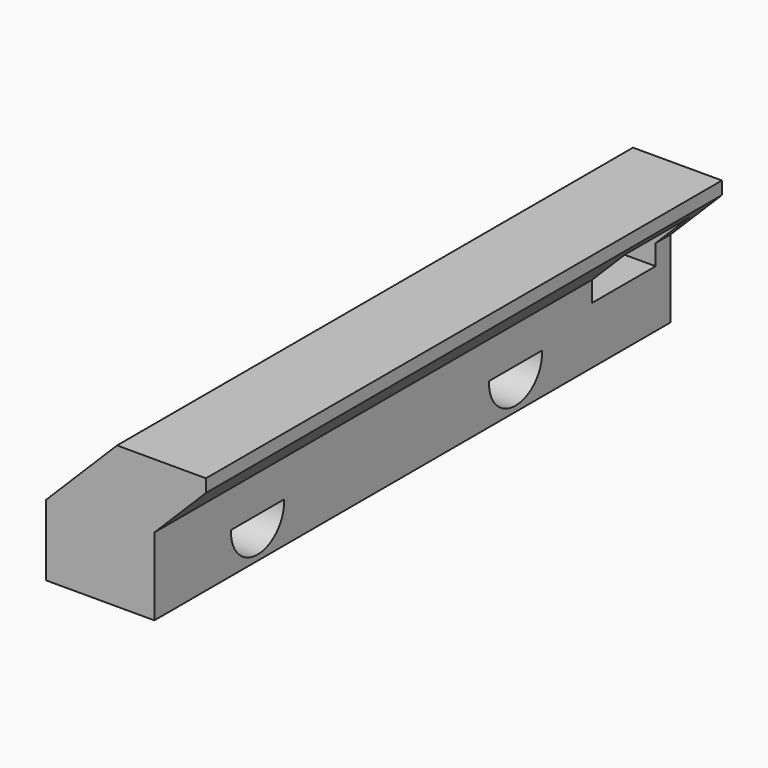
from build123d import *

# Parameters (mm, degrees)
F1_DEPTH = 100
F3_DEPTH = 25
F4_W     = 12.3
F4_H     = 8.3
F5_DEPTH = 25


with BuildPart() as f1:
    # F0 (on Front) → F1 (new body)
    with BuildSketch(Plane.XZ):
        Polygon((-16.789507, 0), (0, 0), (0, 12), (8, 20), (8, 22), (-5.789507, 22), (-16.789507, 11), align=None)
    extrude(amount=F1_DEPTH)

    # F2 (on face) → F3 (cut)
    with BuildSketch(Plane.YZ):
        with BuildLine():
            Line((-74.858745, 6.3), (-85.141255, 6.3))
            ThreePointArc((-85.141255, 6.3), (-80, 0.85), (-74.858745, 6.3))
        make_face()
        with BuildLine():
            Line((-24.858745, 6.3), (-35.141255, 6.3))
            ThreePointArc((-35.141255, 6.3), (-30, 0.85), (-24.858745, 6.3))
        make_face()
    extrude(amount=-F3_DEPTH, mode=Mode.SUBTRACT)

    # F4 (on face) → F5 (cut)
    with BuildSketch(Plane.YZ.offset(8)):
        with Locations((-9, 13)):
            Rectangle(F4_W, F4_H)
    extrude(amount=-F5_DEPTH, mode=Mode.SUBTRACT)


solid = f1.part
